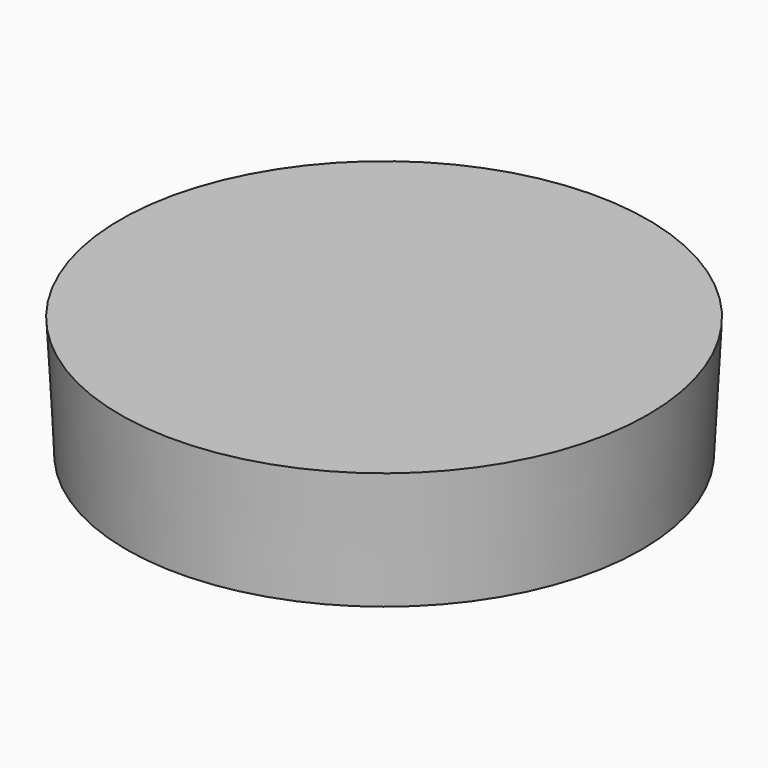
from build123d import *

# Parameters (mm, degrees)
F0_R     = 81.28
F1_DEPTH = 38.1
F1_TAPER = -3
F2_R     = 78.74
F3_DEPTH = 25.4


with BuildPart() as f1:
    # F0 (on Top) → F1 (new body)
    with BuildSketch(Plane.XY):
        Circle(F0_R)
    extrude(amount=F1_DEPTH, taper=F1_TAPER)

    # F2 (on face) → F3 (cut)
    with BuildSketch(Plane(origin=(0, 0, 0), x_dir=(1, 0, 0), z_dir=(0, 0, -1))):
        Circle(F2_R)
    extrude(amount=-F3_DEPTH, mode=Mode.SUBTRACT)


solid = f1.part
